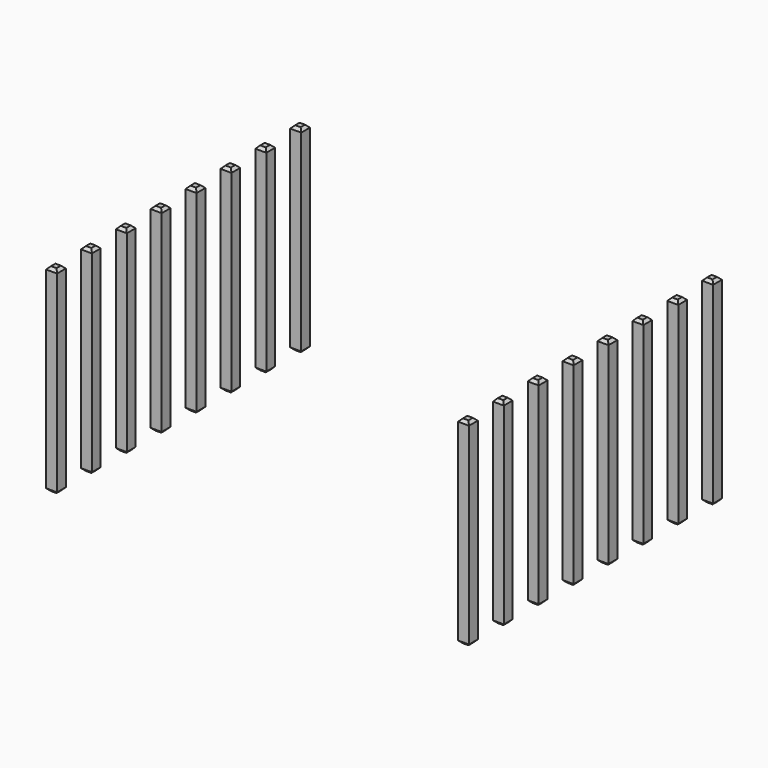
from build123d import *

# Parameters (mm, degrees)
SKETCH207_W       = 0.64
SKETCH207_H       = 11.54
PAD062_DEPTH      = 0.32
PAD062_DEPTH_BACK = 0.32
CHAMFER012_SIZE   = 0.16
ARRAY001_X_COUNT  = 2
ARRAY001_X_PITCH  = 24
ARRAY001_Y_COUNT  = 8
ARRAY001_Y_PITCH  = 2.54


with BuildPart() as part:
    # Sketch207 → Pad062 (new body, two sides)
    with BuildSketch(Plane.XZ) as pad062_sk:
        with Locations((0, 2.77)):
            Rectangle(SKETCH207_W, SKETCH207_H)
    extrude(amount=PAD062_DEPTH)
    extrude(pad062_sk.sketch, amount=-PAD062_DEPTH_BACK)

    # Chamfer012
    chamfer012_edges = [part.edges().sort_by_distance(p)[0] for p in [
        (0.32, 0, 8.54),
        (-0.32, 0, 8.54),
        (0, 0.32, 8.54),
        (0, -0.32, 8.54),
        (-0.32, 0, -3),
        (0.32, 0, -3),
        (0, 0.32, -3),
        (0, -0.32, -3),
    ]]
    chamfer(chamfer012_edges, length=CHAMFER012_SIZE)

    # Array001 X: part ×2


with BuildPart() as part_1:
    add(part.part)
    with Locations(*[(-i * ARRAY001_X_PITCH, 0, 0) for i in range(1, ARRAY001_X_COUNT)]):
        add(part.part)

    # Array001 Y: part ×8


with BuildPart() as part_2:
    add(part_1.part)
    with Locations(*[(0, i * ARRAY001_Y_PITCH, 0) for i in range(1, ARRAY001_Y_COUNT)]):
        add(part_1.part)


solid = part_2.part
